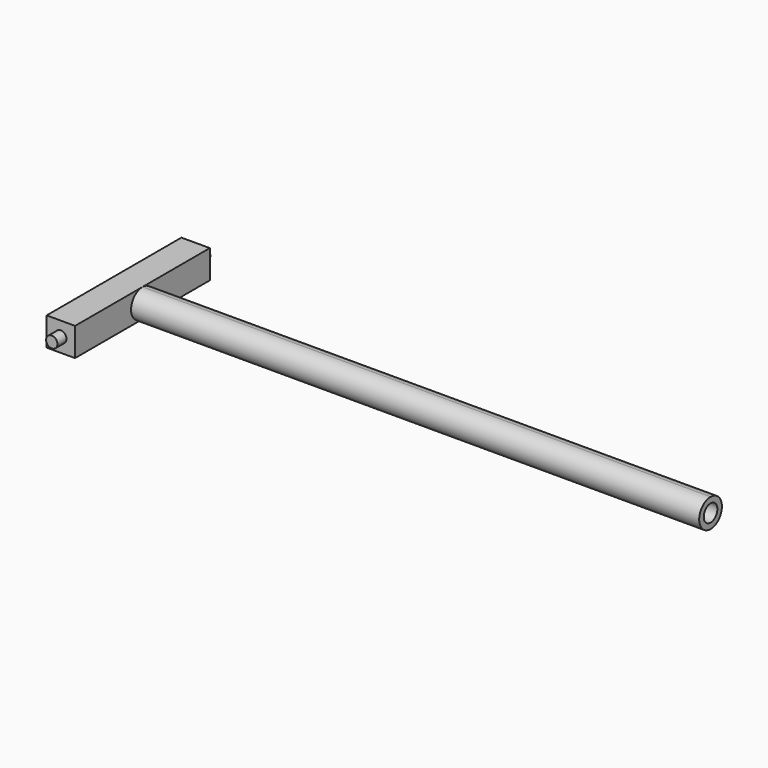
from build123d import *

# Parameters (mm, degrees)
F0_W     = 10
F0_H     = 10
F1_DEPTH = 33.65
F2_W     = 10
F2_H     = 10
F2_R     = 2
F3_DEPTH = 4
F4_W     = 10
F4_H     = 10
F4_R     = 2
F5_DEPTH = 4
F6_R     = 3
F7_DEPTH = 200


with BuildPart() as f1:
    # F0 (on Front) → F1 (new body, symmetric)
    with BuildSketch(Plane.XZ):
        Rectangle(F0_W, F0_H)
    extrude(amount=F1_DEPTH, both=True)

    # F2 (on face) → F3 (cut)
    with BuildSketch(Plane.XZ.offset(33.65)):
        Rectangle(F2_W, F2_H)
        Circle(F2_R, mode=Mode.SUBTRACT)
    extrude(amount=-F3_DEPTH, mode=Mode.SUBTRACT)

    # F4 (on face) → F5 (cut)
    with BuildSketch(Plane(origin=(0, 33.65, 0), x_dir=(-1, 0, 0), z_dir=(0, 1, 0))):
        Rectangle(F4_W, F4_H)
        Circle(F4_R, mode=Mode.SUBTRACT)
    extrude(amount=-F5_DEPTH, mode=Mode.SUBTRACT)

    # F6 (on face) → F7 (join)
    with BuildSketch(Plane.YZ.offset(5)):
        with BuildLine():
            ThreePointArc((0, -5), (3.535534, -3.535534), (5, 0))
            ThreePointArc((5, 0), (3.535534, 3.535534), (0, 5))
            ThreePointArc((0, 5), (-5, 0), (0, -5))
        make_face()
        Circle(F6_R, mode=Mode.SUBTRACT)
    extrude(amount=F7_DEPTH)


solid = f1.part
